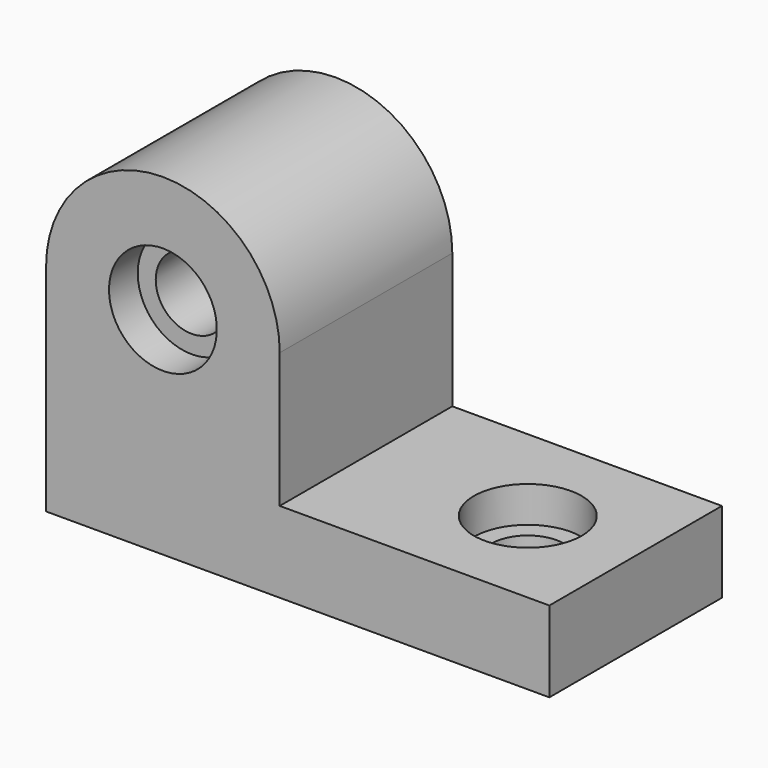
from build123d import *

# Parameters (mm, degrees)
F1_DEPTH = 76.2
F2_DEPTH = 63.5
F3_R     = 19.05
F4_DEPTH = 127
F6_DEPTH = 15.875


with BuildPart() as f1:
    # F0 (on Front) → F1 (new body)
    with BuildSketch(Plane.XZ):
        with BuildLine():
            Line((0, 76.2), (0, 0))
            Line((0, 0), (177.8, 0))
            Line((177.8, 0), (177.8, 28.575))
            Line((177.8, 28.575), (82.55, 28.575))
            Line((82.55, 28.575), (82.55, 76.2))
            Line((82.55, 76.2), (60.325, 76.2))
            ThreePointArc((60.325, 76.2), (41.275, 57.15), (22.225, 76.2))
            Line((22.225, 76.2), (0, 76.2))
        make_face()
        with BuildLine():
            ThreePointArc((82.55, 76.2), (41.275, 117.475), (0, 76.2))
            Line((0, 76.2), (22.225, 76.2))
            ThreePointArc((22.225, 76.2), (41.275, 95.25), (60.325, 76.2))
            Line((60.325, 76.2), (82.55, 76.2))
        make_face()
    extrude(amount=F1_DEPTH)

    # F0 (on Front) → F2 (join)
    with BuildSketch(Plane.XZ):
        with BuildLine():
            Line((28.575, 76.2), (22.225, 76.2))
            ThreePointArc((22.225, 76.2), (41.275, 57.15), (60.325, 76.2))
            Line((60.325, 76.2), (53.975, 76.2))
            ThreePointArc((53.975, 76.2), (41.275, 63.5), (28.575, 76.2))
        make_face()
        with BuildLine():
            ThreePointArc((60.325, 76.2), (41.275, 95.25), (22.225, 76.2))
            Line((22.225, 76.2), (28.575, 76.2))
            ThreePointArc((28.575, 76.2), (41.275, 88.9), (53.975, 76.2))
            Line((53.975, 76.2), (60.325, 76.2))
        make_face()
    extrude(amount=F2_DEPTH)

    # F3 (on face) → F4 (cut)
    with BuildSketch(Plane.XY.offset(28.575)):
        with Locations((139.7, -38.1)):
            Circle(F3_R)
    extrude(amount=-F4_DEPTH, mode=Mode.SUBTRACT)

    # F5 (on face) → F6 (join)
    with BuildSketch(Plane(origin=(0, 0, 0), x_dir=(1, 0, 0), z_dir=(0, 0, -1))):
        with BuildLine():
            ThreePointArc((120.65, 38.1), (139.7, 19.05), (158.75, 38.1))
            Line((158.75, 38.1), (152.4, 38.1))
            ThreePointArc((152.4, 38.1), (139.7, 25.4), (127, 38.1))
            Line((127, 38.1), (120.65, 38.1))
        make_face()
        with BuildLine():
            Line((152.4, 38.1), (158.75, 38.1))
            ThreePointArc((158.75, 38.1), (139.7, 57.15), (120.65, 38.1))
            Line((120.65, 38.1), (127, 38.1))
            ThreePointArc((127, 38.1), (139.7, 50.8), (152.4, 38.1))
        make_face()
    extrude(amount=-F6_DEPTH)


solid = f1.part
